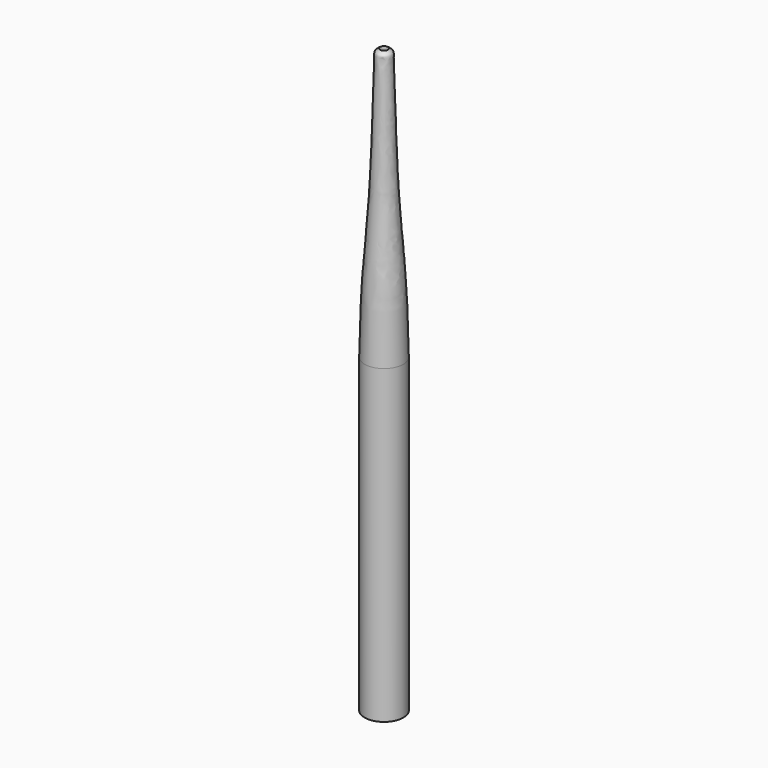
from build123d import *


with BuildPart() as f1:
    # F0 (on Right) → F1 (revolve)
    with BuildSketch(Plane.YZ):
        with BuildLine():
            add(Edge.make_bspline(
                [(-2.5, 12.5564343008), (-2.4464881876, 15.3468445423), (-2.335477536, 21.135571284), (-1.406815036, 30.9520416562), (-1.1974293621, 39.9282131899), (-0.9717442989, 46.4037324279), (-1.0175623357, 47.2294922478), (-0.6679487035, 47.4503417779), (-0.5, 47.5564343008)],
                knots=[0, 0, 0, 0, 0.2221794632, 0.4609129443, 0.6973477006, 0.8836852112, 0.944124267, 1, 1, 1, 1], degree=3))
            Line((-2.5, 12.5564343008), (-2.5, 0))
            Line((-2.5, 0), (-2.5, -27.4960752577))
            Line((-2.5, -27.4960752577), (-0.5, -27.4960752577))
            Line((-0.5, -27.4960752577), (-0.5, 0))
            Line((-0.5, 0), (-0.5, 47.5564343008))
        make_face()
    revolve(axis=Axis((0, 0, 1.4986693568), (0, 0, 1)))


solid = f1.part
